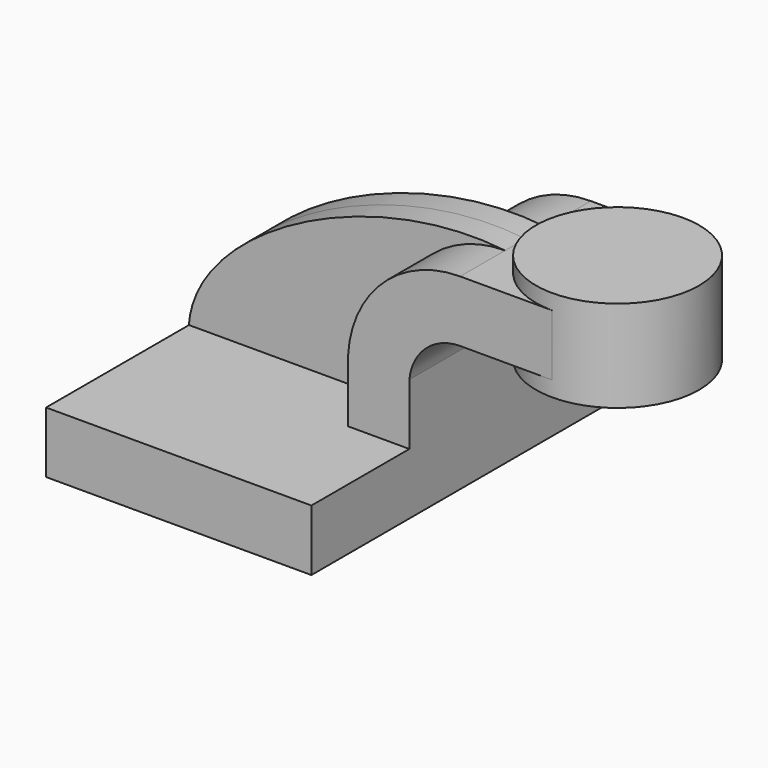
from build123d import *

# Parameters (mm, degrees)
F1_DEPTH = 63.5
F0_W     = 25.4
F0_H     = 19.05
F2_DEPTH = 25.4
F3_DEPTH = 7.9375


with BuildPart() as f1:
    # F0 (on Front) → F1 (new body, symmetric)
    with BuildSketch(Plane.XZ):
        Polygon((-41.275, 9.525), (-41.275, -9.525), (41.275, -9.525), (41.275, 9.525), (22.225, 9.525), align=None)
    extrude(amount=F1_DEPTH, both=True)

    # F0 (on Front) → F2 (join, symmetric)
    with BuildSketch(Plane.XZ):
        with BuildLine():
            Line((22.225, 9.525), (41.275, 9.525))
            Line((41.275, 9.525), (41.275, 28.5360192163))
            ThreePointArc((41.275, 28.5360192163), (46.4070176573, 38.7559806006), (57.0755343054, 42.8752))
            Line((57.0755343054, 42.8752), (60.325, 42.8752))
            Line((60.325, 42.8752), (60.325, 61.9252))
            Line((60.325, 61.9252), (57.0755343054, 61.9252))
            ThreePointArc((57.0755343054, 61.9252), (31.5866607541, 50.8764004953), (22.225, 24.7207519021))
            Line((22.225, 24.7207519021), (22.225, 9.525))
        make_face()
        with Locations((73.025, 52.4002)):
            Rectangle(F0_W, F0_H)
    extrude(amount=F2_DEPTH, both=True)

    # F0 (on Front) → F3 (join, symmetric)
    with BuildSketch(Plane.XZ):
        with BuildLine():
            add(Edge.make_bspline(
                [(57.0755343054, 61.9252), (14.0949925408, 66.8378248811), (-39.5056158304, 38.0801185966), (-41.275, 9.525)],
                knots=[0, 0, 0, 0, 111.4388108254, 111.4388108254, 111.4388108254, 111.4388108254], degree=3))
            Line((-41.275, 9.525), (22.225, 9.525))
            Line((22.225, 9.525), (22.225, 24.7207519021))
            ThreePointArc((22.225, 24.7207519021), (31.5866607541, 50.8764004953), (57.0755343054, 61.9252))
        make_face()
    extrude(amount=F3_DEPTH, both=True)

    # F0 (on Front) → F4 (revolve)
    with BuildSketch(Plane.XZ):
        Polygon((85.725, 66.675), (85.725, 61.9252), (85.725, 42.8752), (85.725, 38.1), (111.125, 38.1), (111.125, 66.675), align=None)
    revolve(axis=Axis((85.725, 0, 52.3875), (0, 0, 1)))


solid = f1.part
